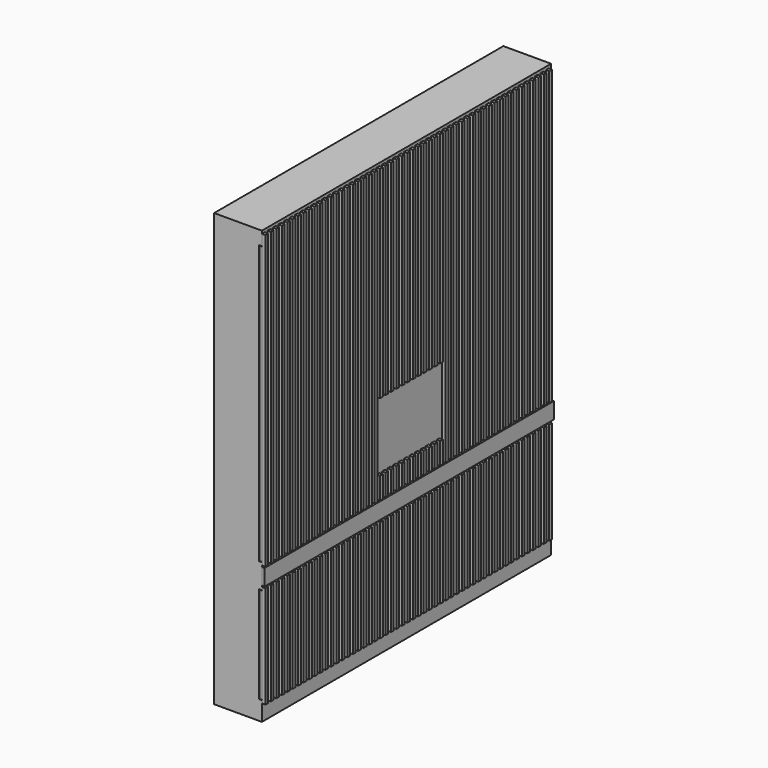
from build123d import *

# Parameters (mm, degrees)
F0_W      = 350
F0_H      = 2650
F2_DEPTH  = 3170
F5_W      = 25
F5_H      = 25
F6_DEPTH  = 3030
F3_W      = 600
F3_H      = 500
F7_DEPTH  = 26.001
F9_W      = 3158.8064435851
F9_H      = 140
F10_DEPTH = 26.001
F12_W     = 2650
F12_H     = 120
F13_DEPTH = 20
F14_W     = 2650
F14_H     = 710
F14_H_2   = 2040
F15_DEPTH = 20
F16_W     = 2610
F16_H     = 710
F16_H_2   = 2040
F17_DEPTH = 310
F19_W     = 2610
F19_H     = 20
F19_W_2   = 580
F19_W_3   = 20
F19_H_2   = 397.8943576813
F19_H_3   = 291
F20_DEPTH = 310
F21_W     = 1190
F21_H     = 2040
F22_DEPTH = 18
F21_W_2   = 710
F21_H_2   = 2034
F21_W_3   = 730
F21_H_3   = 704
F21_W_4   = 590


with BuildPart() as f2:
    # F0 (on Top) → F2 (new body)
    with BuildSketch(Plane.XY):
        with Locations((175, 1325)):
            Rectangle(F0_W, F0_H)
    extrude(amount=F2_DEPTH)

    # F14 (on face) → F15 (cut, through all)
    with BuildSketch(Plane.YZ.offset(350)):
        with Locations((1325, 495)):
            Rectangle(F14_W, F14_H)
        with Locations((1325, 2050)):
            Rectangle(F14_W, F14_H_2)
    extrude(amount=-F15_DEPTH, mode=Mode.SUBTRACT)

    # F16 (on offset) → F17 (cut, through all)
    with BuildSketch(Plane.YZ.offset(330)):
        with Locations((1325, 495)):
            Rectangle(F16_W, F16_H)
        with Locations((1325, 2050)):
            Rectangle(F16_W, F16_H_2)
    extrude(amount=-F17_DEPTH, mode=Mode.SUBTRACT)

    # F19 (on offset) → F20 (join, through all)
    with BuildSketch(Plane(origin=(20, 0, 0), x_dir=(0, -1, 0), z_dir=(-1, 0, 0))):
        with Locations((-1325, 1640)):
            Rectangle(F19_W, F19_H)
        with Locations((-1325, 2010)):
            Rectangle(F19_W, F19_H)
        with Locations((-1325, 2380)):
            Rectangle(F19_W, F19_H)
        with Locations((-1325, 2750)):
            Rectangle(F19_W, F19_H)
        Polygon((-725, 140), (-725, 848.8943576813), (-745, 848.8943576813), (-745, 451), (-745, 431), (-745, 140), align=None)
        with Locations((-1035, 441)):
            Rectangle(F19_W_2, F19_H)
        with Locations((-1335, 649.9471788406)):
            Rectangle(F19_W_3, F19_H_2)
        with Locations((-1335, 441)):
            Rectangle(F19_W_3, F19_H)
        with Locations((-1335, 285.5)):
            Rectangle(F19_W_3, F19_H_3)
        with Locations((-1635, 441)):
            Rectangle(F19_W_2, F19_H)
        Polygon((-1925, 431), (-1925, 451), (-1925, 850), (-1945, 850), (-1945, 140), (-1925, 140), align=None)
    extrude(amount=-F20_DEPTH)

    # F21 (on face) → F22 (join)
    with BuildSketch(Plane.YZ.offset(350)):
        with Locations((1335, 2050)):
            Rectangle(F21_W, F21_H)
    extrude(amount=-F22_DEPTH)


with BuildPart() as f6:
    # F5 (on offset) → F6 (new body, through all)
    with BuildSketch(Plane.XY.offset(120)):
        with Locations((363.5, 12.5)):
            Rectangle(F5_W, F5_H)
    extrude(amount=F6_DEPTH)


with BuildPart() as f6b:
    # F5 (on offset) → F6, piece 2 (new body, through all)
    with BuildSketch(Plane.XY.offset(120)):
        with Locations((363.5, 62.5)):
            Rectangle(F5_W, F5_H)
    extrude(amount=F6_DEPTH)


with BuildPart() as f6c:
    # F5 (on offset) → F6, piece 3 (new body, through all)
    with BuildSketch(Plane.XY.offset(120)):
        with Locations((363.5, 112.5)):
            Rectangle(F5_W, F5_H)
    extrude(amount=F6_DEPTH)


with BuildPart() as f6d:
    # F5 (on offset) → F6, piece 4 (new body, through all)
    with BuildSketch(Plane.XY.offset(120)):
        with Locations((363.5, 162.5)):
            Rectangle(F5_W, F5_H)
    extrude(amount=F6_DEPTH)


with BuildPart() as f6e:
    # F5 (on offset) → F6, piece 5 (new body, through all)
    with BuildSketch(Plane.XY.offset(120)):
        with Locations((363.5, 212.5)):
            Rectangle(F5_W, F5_H)
    extrude(amount=F6_DEPTH)


with BuildPart() as f6f:
    # F5 (on offset) → F6, piece 6 (new body, through all)
    with BuildSketch(Plane.XY.offset(120)):
        with Locations((363.5, 262.5)):
            Rectangle(F5_W, F5_H)
    extrude(amount=F6_DEPTH)


with BuildPart() as f6g:
    # F5 (on offset) → F6, piece 7 (new body, through all)
    with BuildSketch(Plane.XY.offset(120)):
        with Locations((363.5, 312.5)):
            Rectangle(F5_W, F5_H)
    extrude(amount=F6_DEPTH)


with BuildPart() as f6h:
    # F5 (on offset) → F6, piece 8 (new body, through all)
    with BuildSketch(Plane.XY.offset(120)):
        with Locations((363.5, 362.5)):
            Rectangle(F5_W, F5_H)
    extrude(amount=F6_DEPTH)


with BuildPart() as f6i:
    # F5 (on offset) → F6, piece 9 (new body, through all)
    with BuildSketch(Plane.XY.offset(120)):
        with Locations((363.5, 412.5)):
            Rectangle(F5_W, F5_H)
    extrude(amount=F6_DEPTH)


with BuildPart() as f6j:
    # F5 (on offset) → F6, piece 10 (new body, through all)
    with BuildSketch(Plane.XY.offset(120)):
        with Locations((363.5, 462.5)):
            Rectangle(F5_W, F5_H)
    extrude(amount=F6_DEPTH)


with BuildPart() as f6k:
    # F5 (on offset) → F6, piece 11 (new body, through all)
    with BuildSketch(Plane.XY.offset(120)):
        with Locations((363.5, 512.5)):
            Rectangle(F5_W, F5_H)
    extrude(amount=F6_DEPTH)


with BuildPart() as f6l:
    # F5 (on offset) → F6, piece 12 (new body, through all)
    with BuildSketch(Plane.XY.offset(120)):
        with Locations((363.5, 562.5)):
            Rectangle(F5_W, F5_H)
    extrude(amount=F6_DEPTH)


with BuildPart() as f6m:
    # F5 (on offset) → F6, piece 13 (new body, through all)
    with BuildSketch(Plane.XY.offset(120)):
        with Locations((363.5, 612.5)):
            Rectangle(F5_W, F5_H)
    extrude(amount=F6_DEPTH)


with BuildPart() as f6n:
    # F5 (on offset) → F6, piece 14 (new body, through all)
    with BuildSketch(Plane.XY.offset(120)):
        with Locations((363.5, 662.5)):
            Rectangle(F5_W, F5_H)
    extrude(amount=F6_DEPTH)


with BuildPart() as f6o:
    # F5 (on offset) → F6, piece 15 (new body, through all)
    with BuildSketch(Plane.XY.offset(120)):
        with Locations((363.5, 712.5)):
            Rectangle(F5_W, F5_H)
    extrude(amount=F6_DEPTH)


with BuildPart() as f6p:
    # F5 (on offset) → F6, piece 16 (new body, through all)
    with BuildSketch(Plane.XY.offset(120)):
        with Locations((363.5, 762.5)):
            Rectangle(F5_W, F5_H)
    extrude(amount=F6_DEPTH)


with BuildPart() as f6q:
    # F5 (on offset) → F6, piece 17 (new body, through all)
    with BuildSketch(Plane.XY.offset(120)):
        with Locations((363.5, 812.5)):
            Rectangle(F5_W, F5_H)
    extrude(amount=F6_DEPTH)


with BuildPart() as f6r:
    # F5 (on offset) → F6, piece 18 (new body, through all)
    with BuildSketch(Plane.XY.offset(120)):
        with Locations((363.5, 862.5)):
            Rectangle(F5_W, F5_H)
    extrude(amount=F6_DEPTH)


with BuildPart() as f6s:
    # F5 (on offset) → F6, piece 19 (new body, through all)
    with BuildSketch(Plane.XY.offset(120)):
        with Locations((363.5, 912.5)):
            Rectangle(F5_W, F5_H)
    extrude(amount=F6_DEPTH)


with BuildPart() as f6t:
    # F5 (on offset) → F6, piece 20 (new body, through all)
    with BuildSketch(Plane.XY.offset(120)):
        with Locations((363.5, 962.5)):
            Rectangle(F5_W, F5_H)
    extrude(amount=F6_DEPTH)


with BuildPart() as f6u:
    # F5 (on offset) → F6, piece 21 (new body, through all)
    with BuildSketch(Plane.XY.offset(120)):
        with Locations((363.5, 1012.5)):
            Rectangle(F5_W, F5_H)
    extrude(amount=F6_DEPTH)


with BuildPart() as f6v:
    # F5 (on offset) → F6, piece 22 (new body, through all)
    with BuildSketch(Plane.XY.offset(120)):
        with Locations((363.5, 1062.5)):
            Rectangle(F5_W, F5_H)
    extrude(amount=F6_DEPTH)


with BuildPart() as f6w:
    # F5 (on offset) → F6, piece 23 (new body, through all)
    with BuildSketch(Plane.XY.offset(120)):
        with Locations((363.5, 1112.5)):
            Rectangle(F5_W, F5_H)
    extrude(amount=F6_DEPTH)


with BuildPart() as f6x:
    # F5 (on offset) → F6, piece 24 (new body, through all)
    with BuildSketch(Plane.XY.offset(120)):
        with Locations((363.5, 1162.5)):
            Rectangle(F5_W, F5_H)
    extrude(amount=F6_DEPTH)


with BuildPart() as f6y:
    # F5 (on offset) → F6, piece 25 (new body, through all)
    with BuildSketch(Plane.XY.offset(120)):
        with Locations((363.5, 1212.5)):
            Rectangle(F5_W, F5_H)
    extrude(amount=F6_DEPTH)


with BuildPart() as f6z:
    # F5 (on offset) → F6, piece 26 (new body, through all)
    with BuildSketch(Plane.XY.offset(120)):
        with Locations((363.5, 1262.5)):
            Rectangle(F5_W, F5_H)
    extrude(amount=F6_DEPTH)


with BuildPart() as f6ba:
    # F5 (on offset) → F6, piece 27 (new body, through all)
    with BuildSketch(Plane.XY.offset(120)):
        with Locations((363.5, 1312.5)):
            Rectangle(F5_W, F5_H)
    extrude(amount=F6_DEPTH)


with BuildPart() as f6bb:
    # F5 (on offset) → F6, piece 28 (new body, through all)
    with BuildSketch(Plane.XY.offset(120)):
        with Locations((363.5, 1362.5)):
            Rectangle(F5_W, F5_H)
    extrude(amount=F6_DEPTH)


with BuildPart() as f6bc:
    # F5 (on offset) → F6, piece 29 (new body, through all)
    with BuildSketch(Plane.XY.offset(120)):
        with Locations((363.5, 1412.5)):
            Rectangle(F5_W, F5_H)
    extrude(amount=F6_DEPTH)


with BuildPart() as f6bd:
    # F5 (on offset) → F6, piece 30 (new body, through all)
    with BuildSketch(Plane.XY.offset(120)):
        with Locations((363.5, 1462.5)):
            Rectangle(F5_W, F5_H)
    extrude(amount=F6_DEPTH)


with BuildPart() as f6be:
    # F5 (on offset) → F6, piece 31 (new body, through all)
    with BuildSketch(Plane.XY.offset(120)):
        with Locations((363.5, 1512.5)):
            Rectangle(F5_W, F5_H)
    extrude(amount=F6_DEPTH)


with BuildPart() as f6bf:
    # F5 (on offset) → F6, piece 32 (new body, through all)
    with BuildSketch(Plane.XY.offset(120)):
        with Locations((363.5, 1562.5)):
            Rectangle(F5_W, F5_H)
    extrude(amount=F6_DEPTH)


with BuildPart() as f6bg:
    # F5 (on offset) → F6, piece 33 (new body, through all)
    with BuildSketch(Plane.XY.offset(120)):
        with Locations((363.5, 1612.5)):
            Rectangle(F5_W, F5_H)
    extrude(amount=F6_DEPTH)


with BuildPart() as f6bh:
    # F5 (on offset) → F6, piece 34 (new body, through all)
    with BuildSketch(Plane.XY.offset(120)):
        with Locations((363.5, 1662.5)):
            Rectangle(F5_W, F5_H)
    extrude(amount=F6_DEPTH)


with BuildPart() as f6bi:
    # F5 (on offset) → F6, piece 35 (new body, through all)
    with BuildSketch(Plane.XY.offset(120)):
        with Locations((363.5, 1712.5)):
            Rectangle(F5_W, F5_H)
    extrude(amount=F6_DEPTH)


with BuildPart() as f6bj:
    # F5 (on offset) → F6, piece 36 (new body, through all)
    with BuildSketch(Plane.XY.offset(120)):
        with Locations((363.5, 1762.5)):
            Rectangle(F5_W, F5_H)
    extrude(amount=F6_DEPTH)


with BuildPart() as f6bk:
    # F5 (on offset) → F6, piece 37 (new body, through all)
    with BuildSketch(Plane.XY.offset(120)):
        with Locations((363.5, 1812.5)):
            Rectangle(F5_W, F5_H)
    extrude(amount=F6_DEPTH)


with BuildPart() as f6bl:
    # F5 (on offset) → F6, piece 38 (new body, through all)
    with BuildSketch(Plane.XY.offset(120)):
        with Locations((363.5, 1862.5)):
            Rectangle(F5_W, F5_H)
    extrude(amount=F6_DEPTH)


with BuildPart() as f6bm:
    # F5 (on offset) → F6, piece 39 (new body, through all)
    with BuildSketch(Plane.XY.offset(120)):
        with Locations((363.5, 1912.5)):
            Rectangle(F5_W, F5_H)
    extrude(amount=F6_DEPTH)


with BuildPart() as f6bn:
    # F5 (on offset) → F6, piece 40 (new body, through all)
    with BuildSketch(Plane.XY.offset(120)):
        with Locations((363.5, 1962.5)):
            Rectangle(F5_W, F5_H)
    extrude(amount=F6_DEPTH)


with BuildPart() as f6bo:
    # F5 (on offset) → F6, piece 41 (new body, through all)
    with BuildSketch(Plane.XY.offset(120)):
        with Locations((363.5, 2012.5)):
            Rectangle(F5_W, F5_H)
    extrude(amount=F6_DEPTH)


with BuildPart() as f6bp:
    # F5 (on offset) → F6, piece 42 (new body, through all)
    with BuildSketch(Plane.XY.offset(120)):
        with Locations((363.5, 2062.5)):
            Rectangle(F5_W, F5_H)
    extrude(amount=F6_DEPTH)


with BuildPart() as f6bq:
    # F5 (on offset) → F6, piece 43 (new body, through all)
    with BuildSketch(Plane.XY.offset(120)):
        with Locations((363.5, 2112.5)):
            Rectangle(F5_W, F5_H)
    extrude(amount=F6_DEPTH)


with BuildPart() as f6br:
    # F5 (on offset) → F6, piece 44 (new body, through all)
    with BuildSketch(Plane.XY.offset(120)):
        with Locations((363.5, 2162.5)):
            Rectangle(F5_W, F5_H)
    extrude(amount=F6_DEPTH)


with BuildPart() as f6bs:
    # F5 (on offset) → F6, piece 45 (new body, through all)
    with BuildSketch(Plane.XY.offset(120)):
        with Locations((363.5, 2212.5)):
            Rectangle(F5_W, F5_H)
    extrude(amount=F6_DEPTH)


with BuildPart() as f6bt:
    # F5 (on offset) → F6, piece 46 (new body, through all)
    with BuildSketch(Plane.XY.offset(120)):
        with Locations((363.5, 2262.5)):
            Rectangle(F5_W, F5_H)
    extrude(amount=F6_DEPTH)


with BuildPart() as f6bu:
    # F5 (on offset) → F6, piece 47 (new body, through all)
    with BuildSketch(Plane.XY.offset(120)):
        with Locations((363.5, 2312.5)):
            Rectangle(F5_W, F5_H)
    extrude(amount=F6_DEPTH)


with BuildPart() as f6bv:
    # F5 (on offset) → F6, piece 48 (new body, through all)
    with BuildSketch(Plane.XY.offset(120)):
        with Locations((363.5, 2362.5)):
            Rectangle(F5_W, F5_H)
    extrude(amount=F6_DEPTH)


with BuildPart() as f6bw:
    # F5 (on offset) → F6, piece 49 (new body, through all)
    with BuildSketch(Plane.XY.offset(120)):
        with Locations((363.5, 2412.5)):
            Rectangle(F5_W, F5_H)
    extrude(amount=F6_DEPTH)


with BuildPart() as f6bx:
    # F5 (on offset) → F6, piece 50 (new body, through all)
    with BuildSketch(Plane.XY.offset(120)):
        with Locations((363.5, 2462.5)):
            Rectangle(F5_W, F5_H)
    extrude(amount=F6_DEPTH)


with BuildPart() as f6by:
    # F5 (on offset) → F6, piece 51 (new body, through all)
    with BuildSketch(Plane.XY.offset(120)):
        with Locations((363.5, 2512.5)):
            Rectangle(F5_W, F5_H)
    extrude(amount=F6_DEPTH)


with BuildPart() as f6bz:
    # F5 (on offset) → F6, piece 52 (new body, through all)
    with BuildSketch(Plane.XY.offset(120)):
        with Locations((363.5, 2562.5)):
            Rectangle(F5_W, F5_H)
    extrude(amount=F6_DEPTH)


with BuildPart() as f6ca:
    # F5 (on offset) → F6, piece 53 (new body, through all)
    with BuildSketch(Plane.XY.offset(120)):
        with Locations((363.5, 2612.5)):
            Rectangle(F5_W, F5_H)
    extrude(amount=F6_DEPTH)


with BuildPart() as f7_tool:
    # F3 (on face) → F7 (new body, through all)
    with BuildSketch(Plane.YZ.offset(350)):
        with Locations((1335, 1420)):
            Rectangle(F3_W, F3_H)
    extrude(amount=F7_DEPTH)


with BuildPart() as f6v_1:
    add(f6v.part)

    # F7: cut by f7_tool
    add(f7_tool.part, mode=Mode.SUBTRACT)


with BuildPart() as f6w_1:
    add(f6w.part)

    # F7: cut by f7_tool
    add(f7_tool.part, mode=Mode.SUBTRACT)


with BuildPart() as f6x_1:
    add(f6x.part)

    # F7: cut by f7_tool
    add(f7_tool.part, mode=Mode.SUBTRACT)


with BuildPart() as f6y_1:
    add(f6y.part)

    # F7: cut by f7_tool
    add(f7_tool.part, mode=Mode.SUBTRACT)


with BuildPart() as f6z_1:
    add(f6z.part)

    # F7: cut by f7_tool
    add(f7_tool.part, mode=Mode.SUBTRACT)


with BuildPart() as f6ba_1:
    add(f6ba.part)

    # F7: cut by f7_tool
    add(f7_tool.part, mode=Mode.SUBTRACT)


with BuildPart() as f6bb_1:
    add(f6bb.part)

    # F7: cut by f7_tool
    add(f7_tool.part, mode=Mode.SUBTRACT)


with BuildPart() as f6bc_1:
    add(f6bc.part)

    # F7: cut by f7_tool
    add(f7_tool.part, mode=Mode.SUBTRACT)


with BuildPart() as f6bd_1:
    add(f6bd.part)

    # F7: cut by f7_tool
    add(f7_tool.part, mode=Mode.SUBTRACT)


with BuildPart() as f6be_1:
    add(f6be.part)

    # F7: cut by f7_tool
    add(f7_tool.part, mode=Mode.SUBTRACT)


with BuildPart() as f6bf_1:
    add(f6bf.part)

    # F7: cut by f7_tool
    add(f7_tool.part, mode=Mode.SUBTRACT)


with BuildPart() as f6bg_1:
    add(f6bg.part)

    # F7: cut by f7_tool
    add(f7_tool.part, mode=Mode.SUBTRACT)


with BuildPart() as f10_tool:
    # F9 (on face) → F10 (new body, through all)
    with BuildSketch(Plane.YZ.offset(350)):
        with Locations((1326.553195715, 940)):
            Rectangle(F9_W, F9_H)
    extrude(amount=F10_DEPTH)


with BuildPart() as f6_1:
    add(f6.part)

    # F10: cut by f10_tool
    add(f10_tool.part, mode=Mode.SUBTRACT)


with BuildPart() as f6b_1:
    add(f6b.part)

    # F10: cut by f10_tool
    add(f10_tool.part, mode=Mode.SUBTRACT)


with BuildPart() as f6c_1:
    add(f6c.part)

    # F10: cut by f10_tool
    add(f10_tool.part, mode=Mode.SUBTRACT)


with BuildPart() as f6d_1:
    add(f6d.part)

    # F10: cut by f10_tool
    add(f10_tool.part, mode=Mode.SUBTRACT)


with BuildPart() as f6e_1:
    add(f6e.part)

    # F10: cut by f10_tool
    add(f10_tool.part, mode=Mode.SUBTRACT)


with BuildPart() as f6f_1:
    add(f6f.part)

    # F10: cut by f10_tool
    add(f10_tool.part, mode=Mode.SUBTRACT)


with BuildPart() as f6g_1:
    add(f6g.part)

    # F10: cut by f10_tool
    add(f10_tool.part, mode=Mode.SUBTRACT)


with BuildPart() as f6h_1:
    add(f6h.part)

    # F10: cut by f10_tool
    add(f10_tool.part, mode=Mode.SUBTRACT)


with BuildPart() as f6i_1:
    add(f6i.part)

    # F10: cut by f10_tool
    add(f10_tool.part, mode=Mode.SUBTRACT)


with BuildPart() as f6j_1:
    add(f6j.part)

    # F10: cut by f10_tool
    add(f10_tool.part, mode=Mode.SUBTRACT)


with BuildPart() as f6k_1:
    add(f6k.part)

    # F10: cut by f10_tool
    add(f10_tool.part, mode=Mode.SUBTRACT)


with BuildPart() as f6l_1:
    add(f6l.part)

    # F10: cut by f10_tool
    add(f10_tool.part, mode=Mode.SUBTRACT)


with BuildPart() as f6m_1:
    add(f6m.part)

    # F10: cut by f10_tool
    add(f10_tool.part, mode=Mode.SUBTRACT)


with BuildPart() as f6n_1:
    add(f6n.part)

    # F10: cut by f10_tool
    add(f10_tool.part, mode=Mode.SUBTRACT)


with BuildPart() as f6o_1:
    add(f6o.part)

    # F10: cut by f10_tool
    add(f10_tool.part, mode=Mode.SUBTRACT)


with BuildPart() as f6p_1:
    add(f6p.part)

    # F10: cut by f10_tool
    add(f10_tool.part, mode=Mode.SUBTRACT)


with BuildPart() as f6q_1:
    add(f6q.part)

    # F10: cut by f10_tool
    add(f10_tool.part, mode=Mode.SUBTRACT)


with BuildPart() as f6r_1:
    add(f6r.part)

    # F10: cut by f10_tool
    add(f10_tool.part, mode=Mode.SUBTRACT)


with BuildPart() as f6s_1:
    add(f6s.part)

    # F10: cut by f10_tool
    add(f10_tool.part, mode=Mode.SUBTRACT)


with BuildPart() as f6t_1:
    add(f6t.part)

    # F10: cut by f10_tool
    add(f10_tool.part, mode=Mode.SUBTRACT)


with BuildPart() as f6u_1:
    add(f6u.part)

    # F10: cut by f10_tool
    add(f10_tool.part, mode=Mode.SUBTRACT)


with BuildPart() as f6v_2:
    add(f6v_1.part)

    # F10: cut by f10_tool
    add(f10_tool.part, mode=Mode.SUBTRACT)


with BuildPart() as f6w_2:
    add(f6w_1.part)

    # F10: cut by f10_tool
    add(f10_tool.part, mode=Mode.SUBTRACT)


with BuildPart() as f6x_2:
    add(f6x_1.part)

    # F10: cut by f10_tool
    add(f10_tool.part, mode=Mode.SUBTRACT)


with BuildPart() as f6y_2:
    add(f6y_1.part)

    # F10: cut by f10_tool
    add(f10_tool.part, mode=Mode.SUBTRACT)


with BuildPart() as f6z_2:
    add(f6z_1.part)

    # F10: cut by f10_tool
    add(f10_tool.part, mode=Mode.SUBTRACT)


with BuildPart() as f6ba_2:
    add(f6ba_1.part)

    # F10: cut by f10_tool
    add(f10_tool.part, mode=Mode.SUBTRACT)


with BuildPart() as f6bb_2:
    add(f6bb_1.part)

    # F10: cut by f10_tool
    add(f10_tool.part, mode=Mode.SUBTRACT)


with BuildPart() as f6bc_2:
    add(f6bc_1.part)

    # F10: cut by f10_tool
    add(f10_tool.part, mode=Mode.SUBTRACT)


with BuildPart() as f6bd_2:
    add(f6bd_1.part)

    # F10: cut by f10_tool
    add(f10_tool.part, mode=Mode.SUBTRACT)


with BuildPart() as f6be_2:
    add(f6be_1.part)

    # F10: cut by f10_tool
    add(f10_tool.part, mode=Mode.SUBTRACT)


with BuildPart() as f6bf_2:
    add(f6bf_1.part)

    # F10: cut by f10_tool
    add(f10_tool.part, mode=Mode.SUBTRACT)


with BuildPart() as f6bg_2:
    add(f6bg_1.part)

    # F10: cut by f10_tool
    add(f10_tool.part, mode=Mode.SUBTRACT)


with BuildPart() as f6bh_1:
    add(f6bh.part)

    # F10: cut by f10_tool
    add(f10_tool.part, mode=Mode.SUBTRACT)


with BuildPart() as f6bi_1:
    add(f6bi.part)

    # F10: cut by f10_tool
    add(f10_tool.part, mode=Mode.SUBTRACT)


with BuildPart() as f6bj_1:
    add(f6bj.part)

    # F10: cut by f10_tool
    add(f10_tool.part, mode=Mode.SUBTRACT)


with BuildPart() as f6bk_1:
    add(f6bk.part)

    # F10: cut by f10_tool
    add(f10_tool.part, mode=Mode.SUBTRACT)


with BuildPart() as f6bl_1:
    add(f6bl.part)

    # F10: cut by f10_tool
    add(f10_tool.part, mode=Mode.SUBTRACT)


with BuildPart() as f6bm_1:
    add(f6bm.part)

    # F10: cut by f10_tool
    add(f10_tool.part, mode=Mode.SUBTRACT)


with BuildPart() as f6bn_1:
    add(f6bn.part)

    # F10: cut by f10_tool
    add(f10_tool.part, mode=Mode.SUBTRACT)


with BuildPart() as f6bo_1:
    add(f6bo.part)

    # F10: cut by f10_tool
    add(f10_tool.part, mode=Mode.SUBTRACT)


with BuildPart() as f6bp_1:
    add(f6bp.part)

    # F10: cut by f10_tool
    add(f10_tool.part, mode=Mode.SUBTRACT)


with BuildPart() as f6bq_1:
    add(f6bq.part)

    # F10: cut by f10_tool
    add(f10_tool.part, mode=Mode.SUBTRACT)


with BuildPart() as f6br_1:
    add(f6br.part)

    # F10: cut by f10_tool
    add(f10_tool.part, mode=Mode.SUBTRACT)


with BuildPart() as f6bs_1:
    add(f6bs.part)

    # F10: cut by f10_tool
    add(f10_tool.part, mode=Mode.SUBTRACT)


with BuildPart() as f6bt_1:
    add(f6bt.part)

    # F10: cut by f10_tool
    add(f10_tool.part, mode=Mode.SUBTRACT)


with BuildPart() as f6bu_1:
    add(f6bu.part)

    # F10: cut by f10_tool
    add(f10_tool.part, mode=Mode.SUBTRACT)


with BuildPart() as f6bv_1:
    add(f6bv.part)

    # F10: cut by f10_tool
    add(f10_tool.part, mode=Mode.SUBTRACT)


with BuildPart() as f6bw_1:
    add(f6bw.part)

    # F10: cut by f10_tool
    add(f10_tool.part, mode=Mode.SUBTRACT)


with BuildPart() as f6bx_1:
    add(f6bx.part)

    # F10: cut by f10_tool
    add(f10_tool.part, mode=Mode.SUBTRACT)


with BuildPart() as f6by_1:
    add(f6by.part)

    # F10: cut by f10_tool
    add(f10_tool.part, mode=Mode.SUBTRACT)


with BuildPart() as f6bz_1:
    add(f6bz.part)

    # F10: cut by f10_tool
    add(f10_tool.part, mode=Mode.SUBTRACT)


with BuildPart() as f6ca_1:
    add(f6ca.part)

    # F10: cut by f10_tool
    add(f10_tool.part, mode=Mode.SUBTRACT)


with BuildPart() as f13:
    # F12 (on face) → F13 (new body)
    with BuildSketch(Plane.YZ.offset(350)):
        with Locations((1325, 940)):
            Rectangle(F12_W, F12_H)
    extrude(amount=F13_DEPTH)


with BuildPart() as f22:
    # F21 (on face) → F22, piece 2 (new body)
    with BuildSketch(Plane.YZ.offset(350)):
        with Locations((2295, 2050)):
            Rectangle(F21_W_2, F21_H_2)
    extrude(amount=-F22_DEPTH)


with BuildPart() as f22b:
    # F21 (on face) → F22, piece 3 (new body)
    with BuildSketch(Plane.YZ.offset(350)):
        with Locations((365, 2050)):
            Rectangle(F21_W_3, F21_H_2)
    extrude(amount=-F22_DEPTH)


with BuildPart() as f22c:
    # F21 (on face) → F22, piece 4 (new body)
    with BuildSketch(Plane.YZ.offset(350)):
        with Locations((2295, 495)):
            Rectangle(F21_W_2, F21_H_3)
    extrude(amount=-F22_DEPTH)


with BuildPart() as f22d:
    # F21 (on face) → F22, piece 5 (new body)
    with BuildSketch(Plane.YZ.offset(350)):
        with Locations((365, 495)):
            Rectangle(F21_W_3, F21_H_3)
    extrude(amount=-F22_DEPTH)


with BuildPart() as f22e:
    # F21 (on face) → F22, piece 6 (new body)
    with BuildSketch(Plane.YZ.offset(350)):
        with Locations((1635, 495)):
            Rectangle(F21_W_4, F21_H_3)
    extrude(amount=-F22_DEPTH)


solid = Compound([f2.part, f6_1.part, f6b_1.part, f6c_1.part, f6d_1.part, f6e_1.part, f6f_1.part, f6g_1.part, f6h_1.part, f6i_1.part, f6j_1.part, f6k_1.part, f6l_1.part, f6m_1.part, f6n_1.part, f6o_1.part, f6p_1.part, f6q_1.part, f6r_1.part, f6s_1.part, f6t_1.part, f6u_1.part, f6v_2.part, f6w_2.part, f6x_2.part, f6y_2.part, f6z_2.part, f6ba_2.part, f6bb_2.part, f6bc_2.part, f6bd_2.part, f6be_2.part, f6bf_2.part, f6bg_2.part, f6bh_1.part, f6bi_1.part, f6bj_1.part, f6bk_1.part, f6bl_1.part, f6bm_1.part, f6bn_1.part, f6bo_1.part, f6bp_1.part, f6bq_1.part, f6br_1.part, f6bs_1.part, f6bt_1.part, f6bu_1.part, f6bv_1.part, f6bw_1.part, f6bx_1.part, f6by_1.part, f6bz_1.part, f6ca_1.part, f13.part, f22.part, f22b.part, f22c.part, f22d.part, f22e.part])
